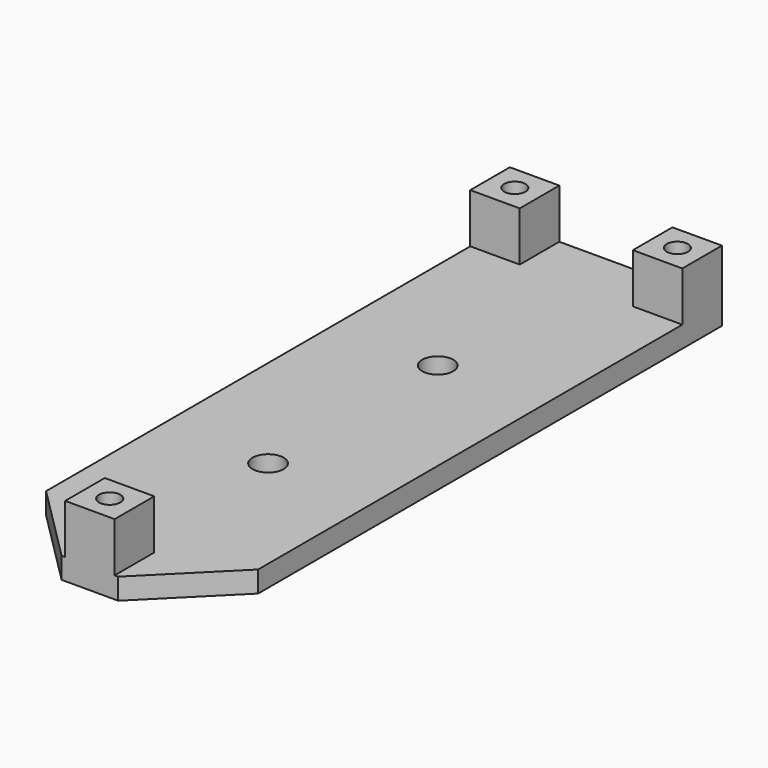
from build123d import *

# Parameters (mm, degrees)
SKETCH_W     = 30
SKETCH_H     = 93
PAD_DEPTH    = 3
SKETCH001_W  = 7
SKETCH001_H  = 7
SKETCH001_R  = 1.5
PAD001_DEPTH = 7
SKETCH002_R  = 2.2
HOLE_DEPTH   = 25
CHAMFER_SIZE = 11


with BuildPart() as part:
    # Sketch → Pad (new body)
    with BuildSketch(Plane.XY):
        with Locations((0, 46.5)):
            Rectangle(SKETCH_W, SKETCH_H)
    extrude(amount=PAD_DEPTH)

    # Sketch001 (on Face6 of Pad) → Pad001 (join)
    with BuildSketch(Plane.XY.offset(3)):
        with Locations((0, 3.5)):
            Rectangle(SKETCH001_W, SKETCH001_H)
        with Locations((0, 3.5)):
            Circle(SKETCH001_R, mode=Mode.SUBTRACT)
        with Locations((-11.5, 89.5)):
            Rectangle(SKETCH001_W, SKETCH001_H)
        with Locations((-11.5, 89.5)):
            Circle(SKETCH001_R, mode=Mode.SUBTRACT)
        with Locations((11.5, 89.5)):
            Rectangle(SKETCH001_W, SKETCH001_H)
        with Locations((11.5, 89.5)):
            Circle(SKETCH001_R, mode=Mode.SUBTRACT)
    extrude(amount=PAD001_DEPTH)

    # Sketch002 (on Face6 of Pad001) → Hole (cut)
    with BuildSketch(Plane.XY.offset(3)):
        with Locations((0, 61.5)):
            Circle(SKETCH002_R)
        with Locations((0, 31.5)):
            Circle(SKETCH002_R)
    extrude(amount=-HOLE_DEPTH, mode=Mode.SUBTRACT)

    # Chamfer
    chamfer_edges = [part.edges().sort_by_distance(p)[0] for p in [
        (15, 0, 1.5),
        (-15, 0, 1.5),
    ]]
    chamfer(chamfer_edges, length=CHAMFER_SIZE)


solid = part.part
